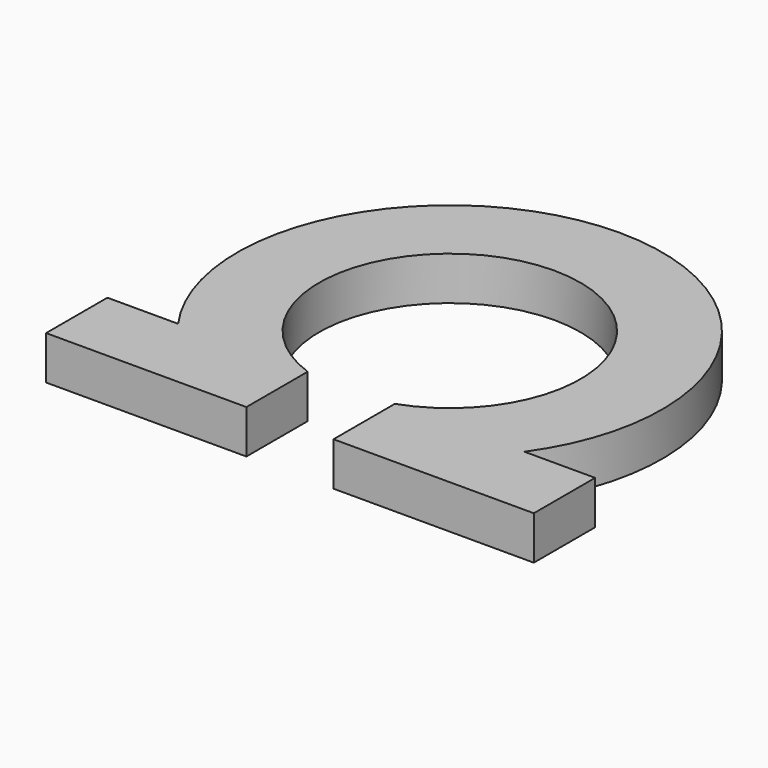
from build123d import *

# Parameters (mm, degrees)
PAD_DEPTH = 3.175


with BuildPart() as part:
    # Sketch → Pad (new body)
    with BuildSketch(Plane.XY):
        with BuildLine():
            Line((-17.78, -8.980256), (-17.78, -14.568256))
            Line((-17.78, -14.568256), (-3.175, -14.568256))
            Line((-3.175, -14.568256), (-3.175, -8.980256))
            ThreePointArc((3.175, -8.980256), (0, 9.525), (-3.175, -8.980256))
            Line((3.175, -8.980256), (3.175, -14.568256))
            Line((3.175, -14.568256), (17.78, -14.568256))
            Line((17.78, -14.568256), (17.78, -8.980256))
            Line((17.78, -8.980256), (12.626125, -8.980256))
            ThreePointArc((12.626125, -8.980256), (0, 15.494), (-12.626125, -8.980256))
            Line((-17.78, -8.980256), (-12.626125, -8.980256))
        make_face()
    extrude(amount=PAD_DEPTH)


solid = part.part
